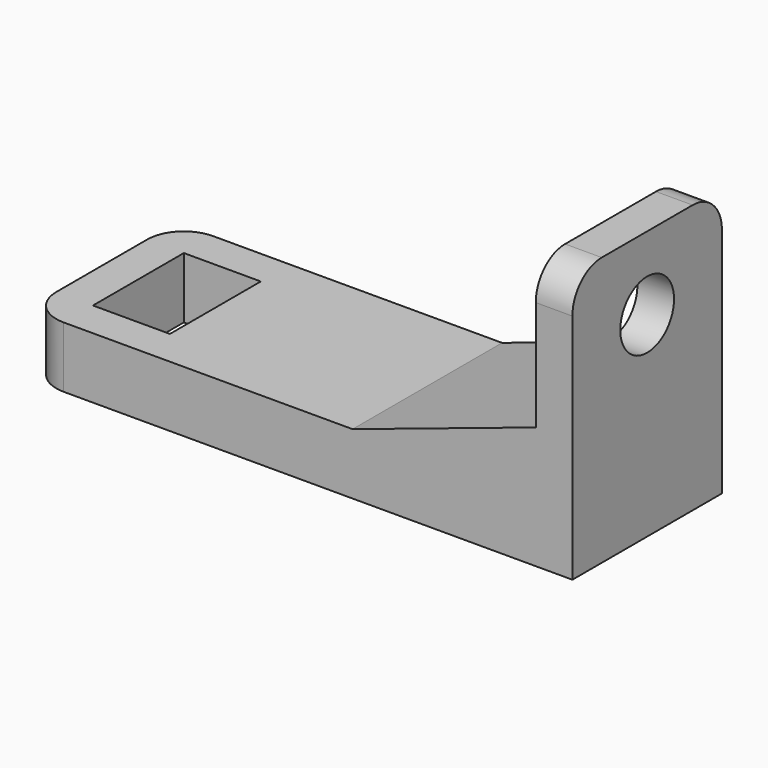
from build123d import *

# Parameters (mm, degrees)
SKETCH063_W   = 6.3
SKETCH063_H   = 9.3
PAD029_DEPTH  = 5
SKETCH064_R   = 2.75
PAD030_DEPTH  = 3
CHAMFER_SIZE2 = 5
CHAMFER_SIZE  = 15


with BuildPart() as part:
    # Sketch063 → Pad029 (new body)
    with BuildSketch(Plane.XY):
        with BuildLine():
            Line((-6.15, 4.65), (-6.15, -4.65))
            ThreePointArc((-6.15, -4.65), (-5.2713203436, -6.7713203436), (-3.15, -7.65))
            Line((-3.15, -7.65), (38.5, -7.65))
            Line((38.5, -7.65), (38.5, 7.65))
            Line((38.5, 7.65), (-3.15, 7.65))
            ThreePointArc((-3.15, 7.65), (-5.2713203436, 6.7713203436), (-6.15, 4.65))
        make_face()
        Rectangle(SKETCH063_W, SKETCH063_H, mode=Mode.SUBTRACT)
    extrude(amount=PAD029_DEPTH)

    # Sketch064 (on Face4 of Pad029) → Pad030 (join)
    with BuildSketch(Plane.YZ.offset(38.5)):
        with BuildLine():
            Line((-7.65, 19), (-7.65, 5))
            Line((-7.65, 5), (7.65, 5))
            Line((7.65, 5), (7.65, 19))
            ThreePointArc((7.65, 19), (6.7713203436, 21.1213203436), (4.65, 22))
            Line((4.65, 22), (-4.65, 22))
            ThreePointArc((-4.65, 22), (-6.7713203436, 21.1213203436), (-7.65, 19))
        make_face()
        with Locations((0, 16)):
            Circle(SKETCH064_R, mode=Mode.SUBTRACT)
    extrude(amount=-PAD030_DEPTH)

    # Chamfer
    chamfer_edges = [part.edges().sort_by_distance(p)[0] for p in [
        (35.5, 0, 5),
    ]]
    chamfer_side = part.faces().sort_by_distance((16.306308, 0, 5))[0]
    chamfer(chamfer_edges, length=CHAMFER_SIZE, length2=CHAMFER_SIZE2, reference=chamfer_side)


with BuildPart() as part_1:
    # Body017 placement: moved
    add(part.part.moved(Location((3, -2.563e-05, 214))))


solid = part_1.part
